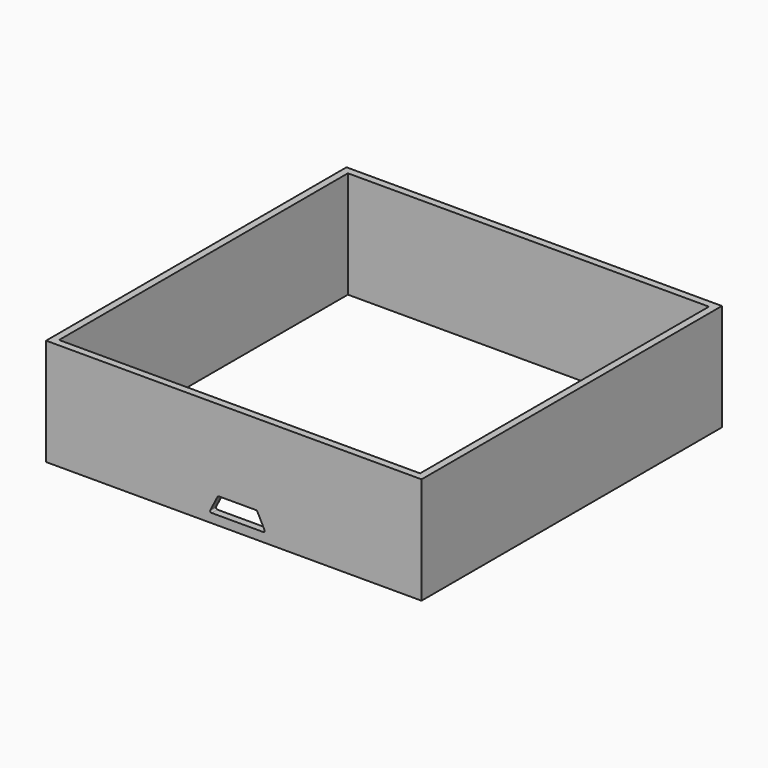
from build123d import *

# Parameters (mm, degrees)
F0_W     = 52
F0_H     = 52
F0_W_2   = 50
F0_H_2   = 50
F4_DEPTH = 14.8
F2_DEPTH = 1
F3_R     = 0.2


with BuildPart() as f4:
    # F0 (on Top) → F4 (new body)
    with BuildSketch(Plane.XY):
        with Locations((22.309654, -19.803896)):
            Rectangle(F0_W, F0_H)
        with Locations((22.309654, -19.803896)):
            Rectangle(F0_W_2, F0_H_2, mode=Mode.SUBTRACT)
        with Locations((22.309654, -19.803896)):
            Rectangle(F0_W, F0_H)
        with Locations((22.309654, -19.803896)):
            Rectangle(F0_W_2, F0_H_2, mode=Mode.SUBTRACT)
    extrude(amount=F4_DEPTH)

    # F1 (on face) → F2 (cut, through all)
    with BuildSketch(Plane.XZ.offset(45.803896)):
        Polygon((18.909654, 1.248189), (22.309654, 1.248189), (26.709654, 1.248189), (25.509654, 3.598189), (22.809654, 3.598189), (20.109654, 3.598189), align=None)
    extrude(amount=-F2_DEPTH, mode=Mode.SUBTRACT)

    # F3
    f3_edges = [f4.edges().sort_by_distance(p)[0] for p in [
        (18.909654, -45.303896, 1.248189),
        (26.709654, -45.303896, 1.248189),
        (25.509654, -45.303896, 3.598189),
        (20.109654, -45.303896, 3.598189),
    ]]
    fillet(f3_edges, radius=F3_R)


solid = f4.part
